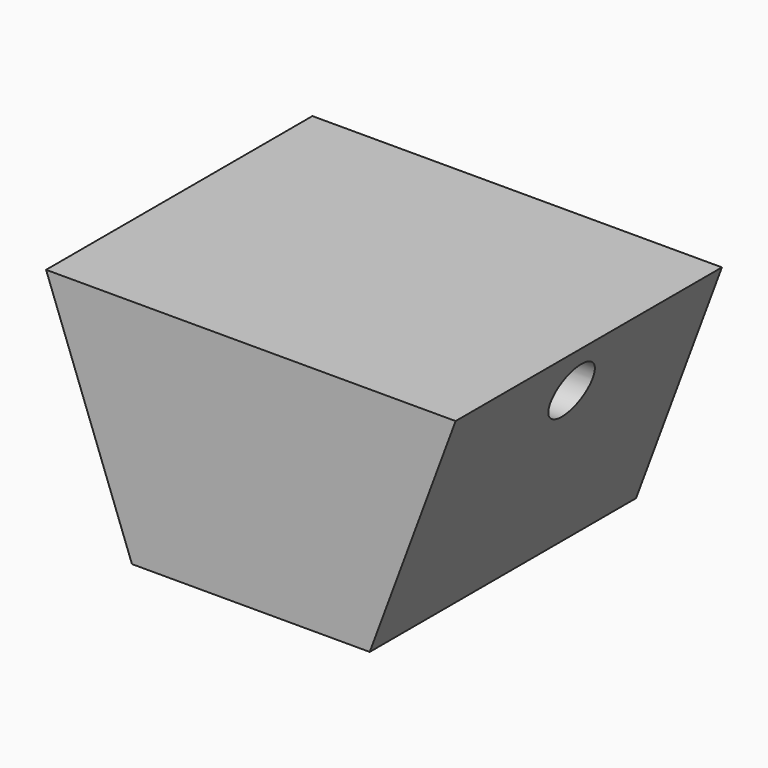
from build123d import *

# Parameters (mm, degrees)
F3_DEPTH = 6.3
F2_R     = 1
F4_DEPTH = 15.501


with BuildPart() as f3:
    # F0 (on Front) → F3 (new body, symmetric)
    with BuildSketch(Plane.XZ):
        Polygon((-4.5, 0), (0, 0), (4.5, 0), (7.75, 8.75), (0, 8.75), (-7.75, 8.75), align=None)
    extrude(amount=F3_DEPTH, both=True)

    # F2 (on plane+point) → F4 (cut, through all)
    with BuildSketch(Plane.YZ.offset(7.75)):
        with Locations((0, 7)):
            Circle(F2_R)
    extrude(amount=-F4_DEPTH, mode=Mode.SUBTRACT)


solid = f3.part
